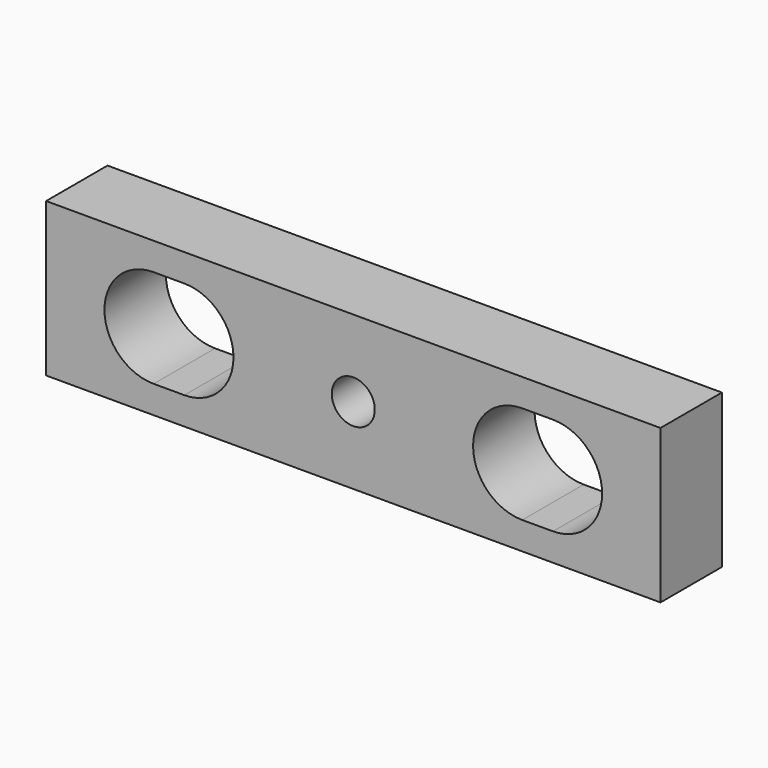
from build123d import *

# Parameters (mm, degrees)
F0_W     = 200
F0_H     = 50
F1_DEPTH = 25
F2_D     = 14


with BuildPart() as f1:
    # F0 (on Front) → F1 (new body)
    with BuildSketch(Plane.XZ):
        with Locations((0, -25)):
            Rectangle(F0_W, F0_H)
        with BuildLine():
            Line((-55, -41), (-65, -41))
            ThreePointArc((-65, -41), (-81, -25), (-65, -9))
            Line((-65, -9), (-55, -9))
            ThreePointArc((-55, -9), (-39, -25), (-55, -41))
        make_face(mode=Mode.SUBTRACT)
        with BuildLine():
            Line((55, -9), (65, -9))
            ThreePointArc((65, -9), (81, -25), (65, -41))
            Line((65, -41), (55, -41))
            ThreePointArc((55, -41), (39, -25), (55, -9))
        make_face(mode=Mode.SUBTRACT)
    extrude(amount=F1_DEPTH)

    # F2 (through all)
    with Locations(Plane(origin=(0, 0, 0), x_dir=(1, 0, 0), z_dir=(0, 1, 0))):
        with Locations((0, 25)):
            Hole(F2_D / 2)


solid = f1.part
